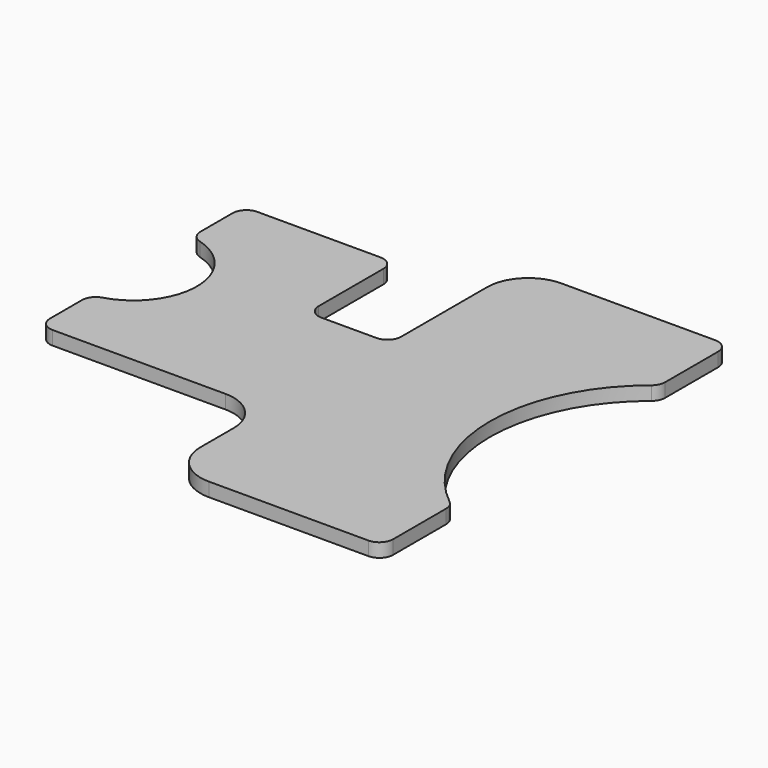
from build123d import *

# Parameters (mm, degrees)
F1_DEPTH = 6.35


with BuildPart() as f1:
    # F0 (on Top) → F1 (new body)
    with BuildSketch(Plane.XY):
        with BuildLine():
            ThreePointArc((-105, -36.5), (-103.140128, -40.990128), (-98.65, -42.85))
            Line((-98.65, -42.85), (-19.05, -42.85))
            ThreePointArc((-19.05, -42.85), (-5.579616, -48.429616), (0, -61.9))
            Line((0, -61.9), (0, -80.95))
            ThreePointArc((0, -80.95), (5.579616, -94.420384), (19.05, -100))
            Line((19.05, -100), (92.65, -100))
            ThreePointArc((92.65, -100), (97.140128, -98.140128), (99, -93.65))
            Line((99, -93.65), (99, -63.117434))
            ThreePointArc((99, -63.117434), (98.377326, -60.375129), (96.631422, -58.170639))
            ThreePointArc((96.631422, -58.170639), (68.778704, 0), (96.631422, 58.170639))
            ThreePointArc((96.631422, 58.170639), (98.377326, 60.375129), (99, 63.117434))
            Line((99, 63.117434), (99, 93.65))
            ThreePointArc((99, 93.65), (97.140128, 98.140128), (92.65, 100))
            Line((92.65, 100), (21.65, 100))
            ThreePointArc((21.65, 100), (8.179616, 94.420384), (2.6, 80.95))
            Line((2.6, 80.95), (2.6, 75.15))
            Line((2.6, 75.15), (2.6, 31.5))
            ThreePointArc((2.6, 31.5), (0.740128, 27.009872), (-3.75, 25.15))
            Line((-3.75, 25.15), (-29.15, 25.15))
            ThreePointArc((-29.15, 25.15), (-33.640128, 27.009872), (-35.5, 31.5))
            Line((-35.5, 31.5), (-35.5, 68.8))
            ThreePointArc((-35.5, 68.8), (-37.359872, 73.290128), (-41.85, 75.15))
            Line((-41.85, 75.15), (-98.65, 75.15))
            ThreePointArc((-98.65, 75.15), (-103.140128, 73.290128), (-105, 68.8))
            Line((-105, 68.8), (-105, 50.309879))
            ThreePointArc((-105, 50.309879), (-103.727052, 46.495952), (-100.41857, 44.211136))
            ThreePointArc((-100.41857, 44.211136), (-79.338794, 16.15), (-100.41857, -11.911136))
            ThreePointArc((-100.41857, -11.911136), (-103.727052, -14.195952), (-105, -18.009879))
            Line((-105, -18.009879), (-105, -36.5))
        make_face()
    extrude(amount=-F1_DEPTH)


solid = f1.part
